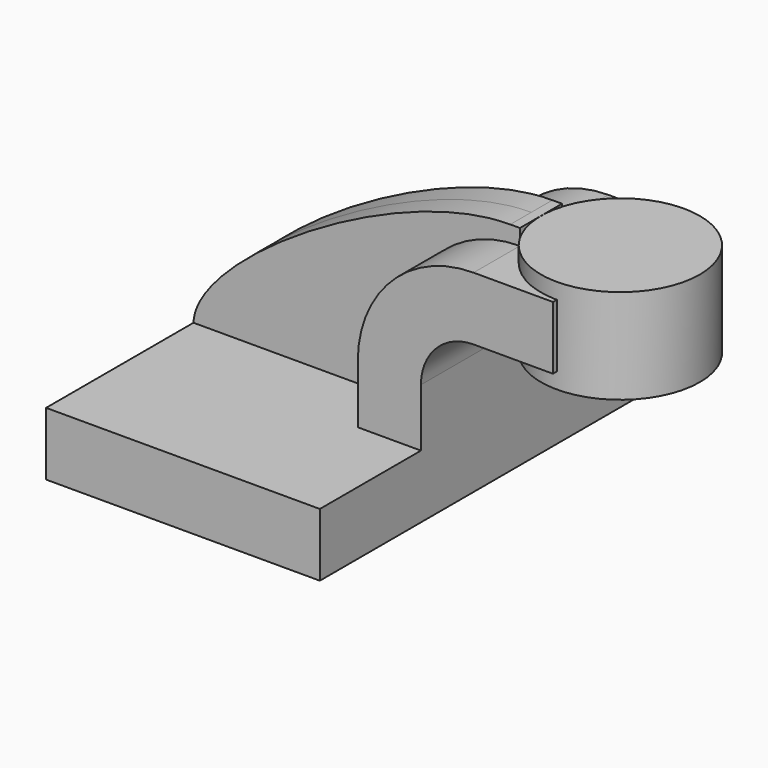
from build123d import *

# Parameters (mm, degrees)
F1_DEPTH = 63.5
F0_W     = 23.947123
F0_H     = 19.05
F2_DEPTH = 25.4
F3_DEPTH = 7.9375


with BuildPart() as f1:
    # F0 (on Front) → F1 (new body, symmetric)
    with BuildSketch(Plane.XZ):
        Polygon((-41.275, -9.525), (41.275, -9.525), (41.275, 9.525), (22.225, 9.525), (-41.275, 9.525), align=None)
    extrude(amount=F1_DEPTH, both=True)

    # F0 (on Front) → F2 (join, symmetric)
    with BuildSketch(Plane.XZ):
        with BuildLine():
            Line((22.225, 9.525), (41.275, 9.525))
            Line((41.275, 9.525), (41.275, 27.0002))
            ThreePointArc((41.275, 27.0002), (45.92468, 38.22552), (57.15, 42.8752))
            Line((57.15, 42.8752), (57.15, 61.9252))
            ThreePointArc((57.15, 61.9252), (32.454296, 51.695904), (22.225, 27.0002))
            Line((22.225, 27.0002), (22.225, 9.525))
        make_face()
        with Locations((69.123561, 52.4002)):
            Rectangle(F0_W, F0_H)
    extrude(amount=F2_DEPTH, both=True)

    # F0 (on Front) → F3 (join, symmetric)
    with BuildSketch(Plane.XZ):
        with BuildLine():
            add(Edge.make_bspline(
                [(-41.275, 9.525), (-40.740337, 28.552236), (19.834127, 66.774502), (54.244246, 66.675)],
                knots=[0, 0, 0, 0, 111.310597, 111.310597, 111.310597, 111.310597], degree=3))
            Line((-41.275, 9.525), (22.225, 9.525))
            Line((22.225, 9.525), (22.225, 27.0002))
            ThreePointArc((22.225, 27.0002), (32.454296, 51.695904), (57.15, 61.9252))
            Line((57.15, 61.9252), (57.15, 66.675))
            Line((57.15, 66.675), (54.244246, 66.675))
        make_face()
    extrude(amount=F3_DEPTH, both=True)


with BuildPart() as f4:
    # F0 (on Front) → F4 (revolve)
    with BuildSketch(Plane.XZ):
        Polygon((81.097123, 61.9252), (81.097123, 42.8752), (81.097123, 38.1), (105.044246, 38.1), (105.044246, 66.675), (81.097123, 66.675), align=None)
    revolve(axis=Axis((81.097123, 0, 52.3875), (0, 0, 1)))


solid = Compound([f1.part, f4.part])
